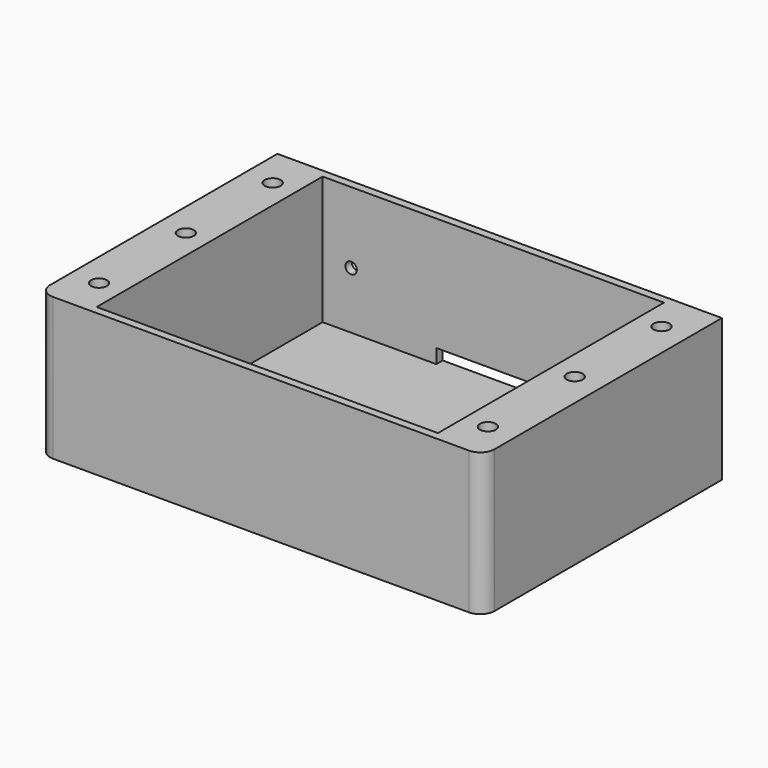
from build123d import *

# Parameters (mm, degrees)
F0_W     = 5
F0_H     = 104.775
F0_W_2   = 146.05
F0_R     = 3.24
F1_DEPTH = 50
F2_W     = 119.824
F2_H     = 99.175
F3_DEPTH = 45
F4_D     = 5.6
F4_DEPTH = 20
F4_TIP   = 1.6824097333
F5_W     = 40
F5_H     = 5
F6_DEPTH = 2.8
F7_D     = 4
F7_DEPTH = 20
F7_TIP   = 1.2017212381
F8_R     = 5


with BuildPart() as f1:
    # F0 (on Top) → F1 (new body)
    with BuildSketch(Plane.XY):
        with Locations((-75.525, 0)):
            Rectangle(F0_W, F0_H)
        Rectangle(F0_W_2, F0_H)
        with Locations((-68.262, -38.0995)):
            Circle(F0_R, mode=Mode.SUBTRACT)
        with Locations((68.262, -38.0995)):
            Circle(F0_R, mode=Mode.SUBTRACT)
        with Locations((-68.262, 0.0005)):
            Circle(F0_R, mode=Mode.SUBTRACT)
        with BuildLine():
            ThreePointArc((68.262, 44.4495), (61.912, 38.0995), (68.262, 31.7495))
            Line((68.262, 31.7495), (72.225, 31.7495))
            Line((72.225, 31.7495), (72.225, 6.3505))
            Line((72.225, 6.3505), (68.262, 6.3505))
            ThreePointArc((68.262, 6.3505), (61.912, 0.0005), (68.262, -6.3495))
            Line((68.262, -6.3495), (72.225, -6.3495))
            Line((72.225, -6.3495), (72.225, -31.7495))
            Line((72.225, -31.7495), (68.262, -31.7495))
            ThreePointArc((68.262, -31.7495), (61.912, -38.0995), (68.262, -44.4495))
            Line((68.262, -44.4495), (72.225, -44.4495))
            Line((72.225, -44.4495), (72.225, -51.5875))
            Line((72.225, -51.5875), (-72.225, -51.5875))
            Line((-72.225, -51.5875), (-72.225, -44.4495))
            Line((-72.225, -44.4495), (-68.262, -44.4495))
            ThreePointArc((-68.262, -44.4495), (-61.912, -38.0995), (-68.262, -31.7495))
            Line((-68.262, -31.7495), (-72.225, -31.7495))
            Line((-72.225, -31.7495), (-72.225, -6.3495))
            Line((-72.225, -6.3495), (-68.262, -6.3495))
            ThreePointArc((-68.262, -6.3495), (-61.912, 0.0005), (-68.262, 6.3505))
            Line((-68.262, 6.3505), (-72.225, 6.3505))
            Line((-72.225, 6.3505), (-72.225, 31.7495))
            Line((-72.225, 31.7495), (-68.262, 31.7495))
            ThreePointArc((-68.262, 31.7495), (-61.912, 38.0995), (-68.262, 44.4495))
            Line((-68.262, 44.4495), (-72.225, 44.4495))
            Line((-72.225, 44.4495), (-72.225, 51.5875))
            Line((-72.225, 51.5875), (72.225, 51.5875))
            Line((72.225, 51.5875), (72.225, 44.4495))
            Line((72.225, 44.4495), (68.262, 44.4495))
        make_face(mode=Mode.SUBTRACT)
        with Locations((-68.262, 38.0995)):
            Circle(F0_R, mode=Mode.SUBTRACT)
        with Locations((68.262, 0.0005)):
            Circle(F0_R, mode=Mode.SUBTRACT)
        with Locations((68.262, 38.0995)):
            Circle(F0_R, mode=Mode.SUBTRACT)
        with Locations((75.525, 0)):
            Rectangle(F0_W, F0_H)
        with Locations((-68.262, 38.0995)):
            Circle(F0_R)
        with BuildLine():
            Line((72.225, 31.7495), (68.262, 31.7495))
            ThreePointArc((68.262, 31.7495), (61.912, 38.0995), (68.262, 44.4495))
            Line((68.262, 44.4495), (72.225, 44.4495))
            Line((72.225, 44.4495), (72.225, 51.5875))
            Line((72.225, 51.5875), (-72.225, 51.5875))
            Line((-72.225, 51.5875), (-72.225, 44.4495))
            Line((-72.225, 44.4495), (-68.262, 44.4495))
            ThreePointArc((-68.262, 44.4495), (-61.912, 38.0995), (-68.262, 31.7495))
            Line((-68.262, 31.7495), (-72.225, 31.7495))
            Line((-72.225, 31.7495), (-72.225, 6.3505))
            Line((-72.225, 6.3505), (-68.262, 6.3505))
            ThreePointArc((-68.262, 6.3505), (-61.912, 0.0005), (-68.262, -6.3495))
            Line((-68.262, -6.3495), (-72.225, -6.3495))
            Line((-72.225, -6.3495), (-72.225, -31.7495))
            Line((-72.225, -31.7495), (-68.262, -31.7495))
            ThreePointArc((-68.262, -31.7495), (-61.912, -38.0995), (-68.262, -44.4495))
            Line((-68.262, -44.4495), (-72.225, -44.4495))
            Line((-72.225, -44.4495), (-72.225, -51.5875))
            Line((-72.225, -51.5875), (72.225, -51.5875))
            Line((72.225, -51.5875), (72.225, -44.4495))
            Line((72.225, -44.4495), (68.262, -44.4495))
            ThreePointArc((68.262, -44.4495), (61.912, -38.0995), (68.262, -31.7495))
            Line((68.262, -31.7495), (72.225, -31.7495))
            Line((72.225, -31.7495), (72.225, -6.3495))
            Line((72.225, -6.3495), (68.262, -6.3495))
            ThreePointArc((68.262, -6.3495), (61.912, 0.0005), (68.262, 6.3505))
            Line((68.262, 6.3505), (72.225, 6.3505))
            Line((72.225, 6.3505), (72.225, 31.7495))
        make_face()
        with Locations((-68.262, 0.0005)):
            Circle(F0_R)
        with Locations((-68.262, -38.0995)):
            Circle(F0_R)
        with Locations((68.262, -38.0995)):
            Circle(F0_R)
        with Locations((68.262, 0.0005)):
            Circle(F0_R)
        with Locations((68.262, 38.0995)):
            Circle(F0_R)
    extrude(amount=-F1_DEPTH)

    # F2 (on face) → F3 (cut)
    with BuildSketch(Plane.XY):
        Rectangle(F2_W, F2_H)
    extrude(amount=-F3_DEPTH, mode=Mode.SUBTRACT)

    # F4
    with Locations(Plane.XY):
        with Locations((-68.262, 38.0995), (-68.262, 0.0005), (-68.262, -38.0995), (68.262, -38.0995), (68.262, 38.0995), (68.262, 0.0005)):
            Hole(F4_D / 2, depth=F4_DEPTH)
            with Locations((0, 0, -(F4_DEPTH + F4_TIP / 2))):  # 118° drill point
                Cone(0, F4_D / 2, F4_TIP, mode=Mode.SUBTRACT)

    # F5 (on face) → F6 (cut, through all)
    with BuildSketch(Plane(origin=(0, 52.3875, 0), x_dir=(-1, 0, 0), z_dir=(0, 1, 0))):
        with Locations((0, -42.5)):
            Rectangle(F5_W, F5_H)
    extrude(amount=-F6_DEPTH, mode=Mode.SUBTRACT)

    # F7
    with Locations(Plane(origin=(0, 52.3875, 0), x_dir=(-1, 0, 0), z_dir=(0, 1, 0))):
        with Locations((-49.912, -25), (49.912, -25)):
            Hole(F7_D / 2, depth=F7_DEPTH)
            with Locations((0, 0, -(F7_DEPTH + F7_TIP / 2))):  # 118° drill point
                Cone(0, F7_D / 2, F7_TIP, mode=Mode.SUBTRACT)

    # F8
    f8_edges = [f1.edges().sort_by_distance(p)[0] for p in [
        (-78.025, -52.3875, -25),
        (78.025, -52.3875, -25),
    ]]
    fillet(f8_edges, radius=F8_R)


solid = f1.part
